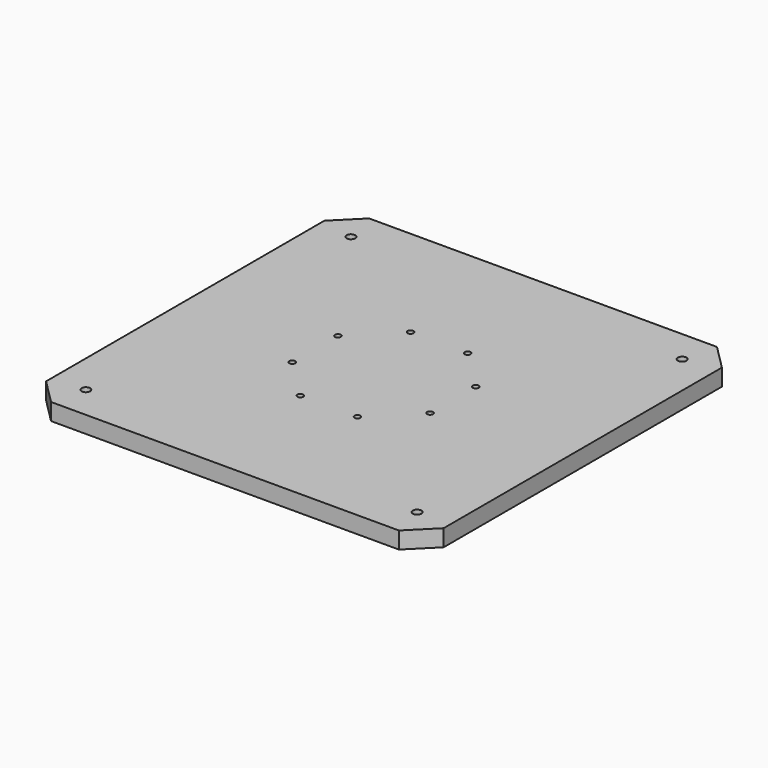
from build123d import *

# Parameters (mm, degrees)
F0_W     = 1200
F0_H     = 1200
F1_DEPTH = 25.4
F3_D     = 18
F4_SIZE  = 75
F6_D     = 26


with BuildPart() as f1:
    # F0 (on Top) → F1 (new body, symmetric)
    with BuildSketch(Plane.XY):
        Rectangle(F0_W, F0_H)
    extrude(amount=F1_DEPTH, both=True)

    # F3 (through all)
    with Locations(Plane.XY.offset(25.4)):
        with Locations((-86.1037722821, 207.872894815), (86.1037722821, 207.872894815), (207.872894815, 86.1037722821), (207.872894815, -86.1037722821), (86.1037722821, -207.872894815), (-86.1037722821, -207.872894815), (-207.872894815, -86.1037722821), (-207.872894815, 86.1037722821)):
            Hole(F3_D / 2)

    # F4
    f4_edges = [f1.edges().sort_by_distance(p)[0] for p in [
        (-600, 600, 0),
        (600, 600, 0),
        (600, -600, 0),
        (-600, -600, 0),
    ]]
    chamfer(f4_edges, length=F4_SIZE)

    # F6 (through all)
    with Locations(Plane.XY.offset(25.4)):
        with Locations((500, 500), (500, -500), (-500, 500), (-500, -500)):
            Hole(F6_D / 2)


solid = f1.part
